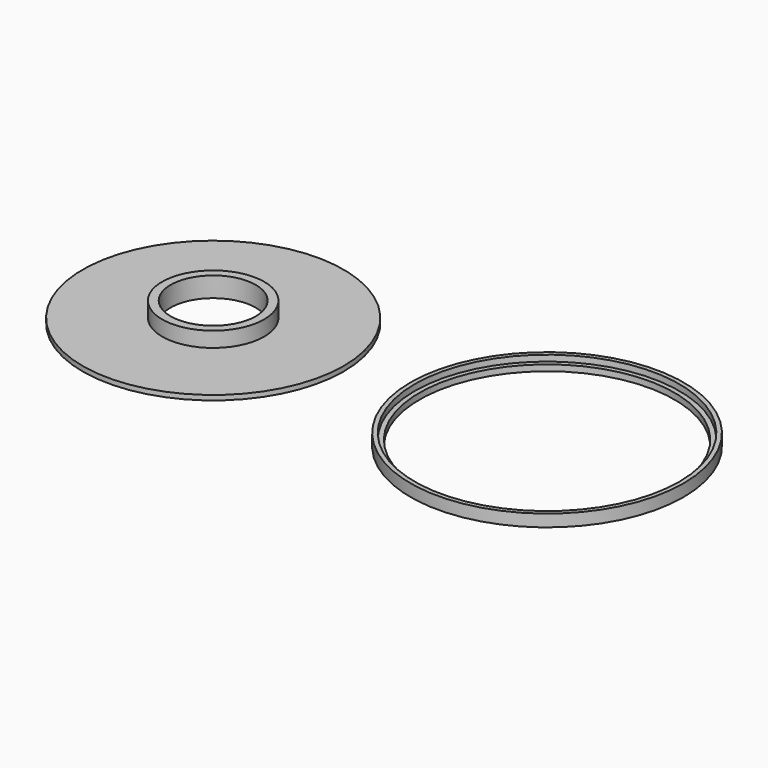
from build123d import *

# Parameters (mm, degrees)
SKETCH_R        = 24.3
PAD_DEPTH       = 0.8
SKETCH001_R     = 8.4
PAD001_DEPTH    = 2.5
SKETCH002_R     = 7.007775
POCKET_DEPTH    = 3.301
SKETCH003_R     = 31.153202
SKETCH003_R_2   = 21.5
POCKET001_DEPTH = 5
SKETCH004_R     = 22.5
PAD002_DEPTH    = 2
SKETCH005_R     = 21.787651
POCKET002_DEPTH = 1
SKETCH006_R     = 21
POCKET003_DEPTH = 5


with BuildPart() as body:
    # Sketch → Pad (new body)
    with BuildSketch(Plane.XY):
        Circle(SKETCH_R)
    extrude(amount=PAD_DEPTH)

    # Sketch001 (on Face3 of Pad) → Pad001 (join)
    with BuildSketch(Plane.XY.offset(0.8)):
        Circle(SKETCH001_R)
    extrude(amount=PAD001_DEPTH)

    # Sketch002 (on Face5 of Pad001) → Pocket (cut, through all)
    with BuildSketch(Plane.XY.offset(3.3)):
        Circle(SKETCH002_R)
    extrude(amount=-POCKET_DEPTH, mode=Mode.SUBTRACT)

    # Sketch003 (on Face3 of Pocket) → Pocket001 (cut)
    with BuildSketch(Plane.XY.offset(0.8)):
        Circle(SKETCH003_R)
        Circle(SKETCH003_R_2, mode=Mode.SUBTRACT)
    extrude(amount=-POCKET001_DEPTH, mode=Mode.SUBTRACT)


with BuildPart() as body001:
    # Sketch004 → Pad002 (new body)
    with BuildSketch(Plane.XY):
        with Locations((55, 0)):
            Circle(SKETCH004_R)
    extrude(amount=PAD002_DEPTH)

    # Sketch005 (on Face3 of Pad002) → Pocket002 (cut)
    with BuildSketch(Plane.XY.offset(2)):
        with Locations((55, 0)):
            Circle(SKETCH005_R)
    extrude(amount=-POCKET002_DEPTH, mode=Mode.SUBTRACT)

    # Sketch006 (on Face5 of Pocket002) → Pocket003 (cut)
    with BuildSketch(Plane.XY.offset(1)):
        with Locations((55, 0)):
            Circle(SKETCH006_R)
    extrude(amount=-POCKET003_DEPTH, mode=Mode.SUBTRACT)


solid = Compound([body.part, body001.part])
